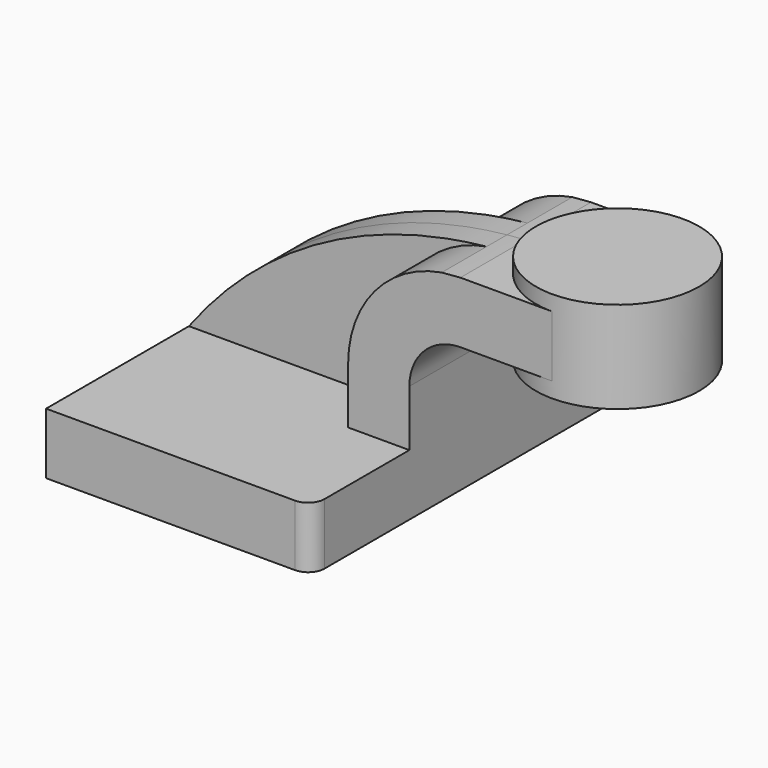
from build123d import *

# Parameters (mm, degrees)
F1_DEPTH = 63.5
F2_DEPTH = 25.4
F0_W     = 25.4
F0_H     = 19.05
F3_DEPTH = 25.4
F4_DEPTH = 7.9375
F6_R     = 5.08


with BuildPart() as f1:
    # F0 (on Front) → F1 (new body, symmetric)
    with BuildSketch(Plane.XZ):
        Polygon((41.275, -9.525), (41.275, 9.525), (22.225, 9.525), (-41.275, 9.525), (-41.275, -9.525), align=None)
    extrude(amount=F1_DEPTH, both=True)

    # F0 (on Front) → F2 (join, symmetric)
    with BuildSketch(Plane.XZ):
        with BuildLine():
            Line((22.225, 9.525), (41.275, 9.525))
            Line((41.275, 9.525), (41.275, 27.0002))
            ThreePointArc((41.275, 27.0002), (45.9246798487, 38.2255201513), (57.15, 42.8752))
            Line((57.15, 42.8752), (60.325, 42.8752))
            Line((60.325, 42.8752), (60.325, 61.9252))
            Line((60.325, 61.9252), (57.15, 61.9252))
            add(Edge.make_bspline(
                [(51.3437067014, 61.4391689615), (53.2701840595, 61.6380826353), (55.2059301459, 61.8000229845), (57.15, 61.9252)],
                knots=[105.8784898715, 105.8784898715, 105.8784898715, 105.8784898715, 111.5045361635, 111.5045361635, 111.5045361635, 111.5045361635], degree=3))
            ThreePointArc((51.3437067014, 61.4391689615), (30.4803504105, 49.5498211891), (22.225, 27.0002))
            Line((22.225, 27.0002), (22.225, 9.525))
        make_face()
    extrude(amount=F2_DEPTH, both=True)

    # F0 (on Front) → F3 (join, symmetric)
    with BuildSketch(Plane.XZ):
        with Locations((73.025, 52.4002)):
            Rectangle(F0_W, F0_H)
    extrude(amount=F3_DEPTH, both=True)

    # F0 (on Front) → F4 (join, symmetric)
    with BuildSketch(Plane.XZ):
        with BuildLine():
            Line((-41.275, 9.525), (22.225, 9.525))
            Line((22.225, 9.525), (22.225, 27.0002))
            ThreePointArc((22.225, 27.0002), (30.4803504105, 49.5498211891), (51.3437067014, 61.4391689615))
            add(Edge.make_bspline(
                [(-41.275, 9.525), (-17.8836826393, 40.8575650231), (15.0886702409, 57.6957444853), (51.3437067014, 61.4391689615)],
                knots=[0, 0, 0, 0, 105.8784898715, 105.8784898715, 105.8784898715, 105.8784898715], degree=3))
        make_face()
    extrude(amount=F4_DEPTH, both=True)

    # F0 (on Front) → F5 (revolve)
    with BuildSketch(Plane.XZ):
        Polygon((85.725, 61.9252), (85.725, 42.8752), (85.725, 38.1), (111.125, 38.1), (111.125, 66.675), (85.725, 66.675), align=None)
    revolve(axis=Axis((85.725, 0, 52.3875), (0, 0, 1)))

    # F6
    f6_edges = [f1.edges().sort_by_distance(p)[0] for p in [
        (41.275, -63.5, 0),
        (-41.275, 63.5, 0),
        (41.275, 63.5, 0),
    ]]
    fillet(f6_edges, radius=F6_R)


solid = f1.part
